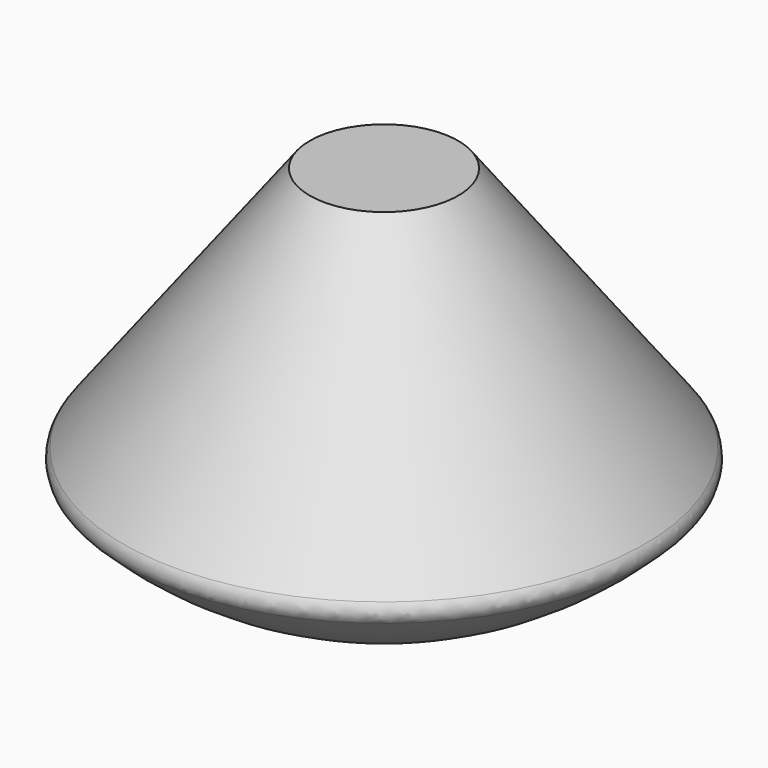
from build123d import *

# Parameters (mm, degrees)
F2_R     = 5.08
F4_D     = 12.7
F4_DEPTH = 90.273154499


with BuildPart() as f1:
    # F0 (on Front) → F1 (revolve)
    with BuildSketch(Plane.XZ):
        with BuildLine():
            ThreePointArc((-91.9005685167, 39.3456475336), (-49.9844837763, 10.2500476162), (0, 0))
            Line((0, 0), (0, 127))
            Line((0, 127), (-25.4, 127))
            Line((-25.4, 127), (-91.9005685167, 39.3456475336))
        make_face()
    revolve(axis=Axis((0, 0, 63.5), (0, 0, 1)))

    # F2
    f2_edges = [f1.edges().sort_by_distance(p)[0] for p in [
        (91.900569, 0, 39.345648),
    ]]
    fillet(f2_edges, radius=F2_R)

    # F4 (through all, one way)
    with BuildSketch(Plane.XZ):
        with Locations((0, 112.6990020275)):
            Circle(F4_D / 2)
    extrude(amount=-F4_DEPTH, mode=Mode.SUBTRACT)


solid = f1.part
